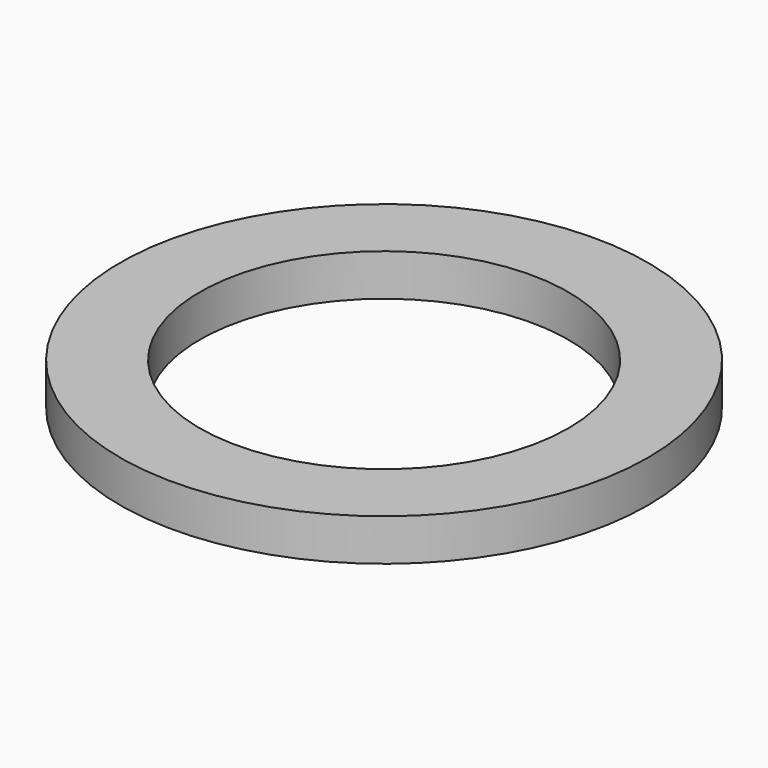
from build123d import *

# Parameters (mm, degrees)
CYLINDER022_R     = 2.2
CYLINDER022_DEPTH = 0.5
CYLINDER021_R     = 3.15
CYLINDER021_DEPTH = 0.5


with BuildPart() as cylinder022:
    # Cylinder022 → Cylinder022 (new body)
    with BuildSketch(Plane.XY):
        Circle(CYLINDER022_R)
    extrude(amount=CYLINDER022_DEPTH)


with BuildPart() as f_0p5_spacer:
    # Cylinder021 → Cylinder021 (new body)
    with BuildSketch(Plane.XY):
        Circle(CYLINDER021_R)
    extrude(amount=CYLINDER021_DEPTH)

    # Cut001021: cut Cylinder022
    add(cylinder022.part, mode=Mode.SUBTRACT)


solid = f_0p5_spacer.part
